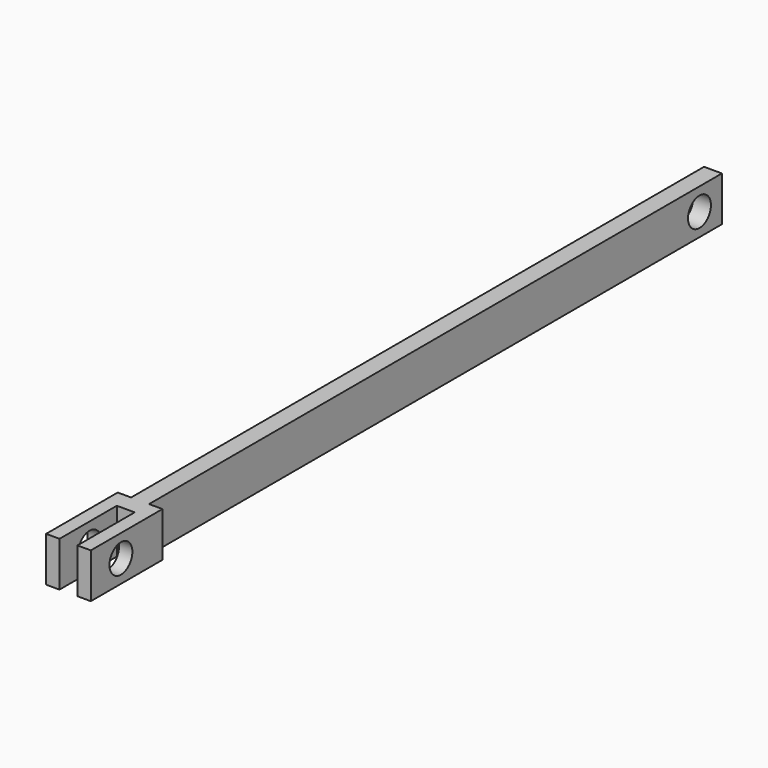
from build123d import *

# Parameters (mm, degrees)
F0_W          = 400
F0_H          = 25
F1_DEPTH      = 5
F1_DEPTH_BACK = 5
F2_W          = 7.5
F2_H          = 25
F2_W_2        = 10
F3_DEPTH      = 10
F4_W          = 7.5
F4_H          = 25
F5_DEPTH      = 40
F6_R          = 8
F7_DEPTH      = 25
F8_R          = 8
F9_DEPTH      = 25
F10_R         = 8
F11_DEPTH     = 25


with BuildPart() as f1:
    # F0 (on Right) → F1 (new body, two sides)
    with BuildSketch(Plane.YZ) as f1_sk:
        Rectangle(F0_W, F0_H)
    extrude(amount=F1_DEPTH)
    extrude(f1_sk.sketch, amount=-F1_DEPTH_BACK)

    # F2 (on face) → F3 (join)
    with BuildSketch(Plane.XZ.offset(200)):
        with Locations((-8.75, 0)):
            Rectangle(F2_W, F2_H)
        Rectangle(F2_W_2, F2_H)
        with Locations((8.75, 0)):
            Rectangle(F2_W, F2_H)
    extrude(amount=F3_DEPTH)

    # F4 (on face) → F5 (join)
    with BuildSketch(Plane.XZ.offset(210)):
        with Locations((8.75, 0)):
            Rectangle(F4_W, F4_H)
        with Locations((-8.75, 0)):
            Rectangle(F4_W, F4_H)
    extrude(amount=F5_DEPTH)

    # F6 (on face) → F7 (cut)
    with BuildSketch(Plane.YZ.offset(12.5)):
        with Locations((-228.9973199368, 0)):
            Circle(F6_R)
    extrude(amount=-F7_DEPTH, mode=Mode.SUBTRACT)

    # F8 (on face) → F9 (cut)
    with BuildSketch(Plane.YZ.offset(5)):
        with Locations((234.8896563053, 0)):
            Circle(F8_R)
    extrude(amount=-F9_DEPTH, mode=Mode.SUBTRACT)

    # F10 (on face) → F11 (cut)
    with BuildSketch(Plane.YZ.offset(5)):
        with Locations((184.34253335, 0)):
            Circle(F10_R)
    extrude(amount=-F11_DEPTH, mode=Mode.SUBTRACT)


solid = f1.part
